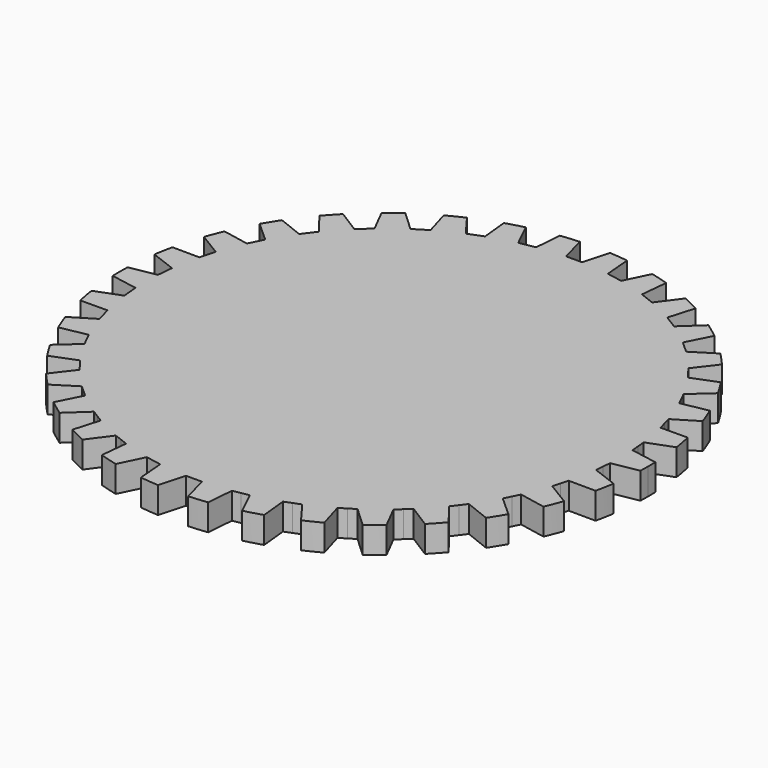
from build123d import *

# Parameters (mm, degrees)
F1_DEPTH = 1


with BuildPart() as f1:
    # F0 (on Top) → F1 (new body)
    with BuildSketch(Plane.XY):
        with BuildLine():
            ThreePointArc((-31.297324, 19.154953), (-31.292672, 19.331025), (-31.29112, 19.507151))
            ThreePointArc((-31.29112, 19.507151), (-31.292672, 19.683277), (-31.297324, 19.859349))
            Line((-31.297324, 19.859349), (-32.302205, 20.038811))
            Line((-32.302205, 20.038811), (-32.329886, 20.337532))
            Line((-32.329886, 20.337532), (-32.357566, 20.636252))
            Line((-32.357566, 20.636252), (-31.402772, 20.997305))
            ThreePointArc((-31.402772, 20.997305), (-31.461389, 21.344646), (-31.532204, 21.689707))
            Line((-31.532204, 21.689707), (-32.552951, 21.681468))
            Line((-32.552951, 21.681468), (-32.63505, 21.970015))
            Line((-32.63505, 21.970015), (-32.717149, 22.258563))
            Line((-32.717149, 22.258563), (-31.844955, 22.788912))
            ThreePointArc((-31.844955, 22.788912), (-31.966398, 23.119568), (-32.099412, 23.445741))
            Line((-32.099412, 23.445741), (-33.101265, 23.25008))
            Line((-33.101265, 23.25008), (-33.234986, 23.518629))
            Line((-33.234986, 23.518629), (-33.368708, 23.787178))
            Line((-33.368708, 23.787178), (-32.608816, 24.468762))
            ThreePointArc((-32.608816, 24.468762), (-32.788949, 24.771473), (-32.979632, 25.067651))
            Line((-32.979632, 25.067651), (-33.928474, 24.691232))
            Line((-33.928474, 24.691232), (-34.109264, 24.930637))
            Line((-34.109264, 24.930637), (-34.290055, 25.170042))
            Line((-34.290055, 25.170042), (-33.668342, 25.97965))
            ThreePointArc((-33.668342, 25.97965), (-33.901031, 26.244107), (-34.14289, 26.500205))
            Line((-34.14289, 26.500205), (-35.006409, 25.955846))
            Line((-35.006409, 25.955846), (-35.228112, 26.157954))
            Line((-35.228112, 26.157954), (-35.449815, 26.360063))
            Line((-35.449815, 26.360063), (-34.987453, 27.270126))
            ThreePointArc((-34.987453, 27.270126), (-35.264774, 27.487323), (-35.549573, 27.694619))
            Line((-35.549573, 27.694619), (-36.298363, 27.000857))
            Line((-36.298363, 27.000857), (-36.553428, 27.158787))
            Line((-36.553428, 27.158787), (-36.808493, 27.316716))
            Line((-36.808493, 27.316716), (-36.521228, 28.296242))
            ThreePointArc((-36.521228, 28.296242), (-36.833737, 28.458784), (-37.151777, 28.610218))
            Line((-37.151777, 28.610218), (-37.760339, 27.790679))
            Line((-37.760339, 27.790679), (-38.040081, 27.899052))
            Line((-38.040081, 27.899052), (-38.319822, 28.007424))
            Line((-38.319822, 28.007424), (-38.217436, 29.023057))
            ThreePointArc((-38.217436, 29.023057), (-38.55449, 29.125407), (-38.894941, 29.215824))
            Line((-38.894941, 29.215824), (-39.342552, 28.298416))
            Line((-39.342552, 28.298416), (-39.637444, 28.353541))
            Line((-39.637444, 28.353541), (-39.932335, 28.408665))
            Line((-39.932335, 28.408665), (-40.018314, 29.425818))
            ThreePointArc((-40.018314, 29.425818), (-40.368437, 29.464493), (-40.719705, 29.490812))
            Line((-40.719705, 29.490812), (-40.99112, 28.506776))
            Line((-40.99112, 28.506776), (-41.29112, 28.506776))
            Line((-41.29112, 28.506776), (-41.59112, 28.506776))
            Line((-41.59112, 28.506776), (-41.862536, 29.490812))
            ThreePointArc((-41.862536, 29.490812), (-42.213804, 29.464493), (-42.563927, 29.425818))
            Line((-42.563927, 29.425818), (-42.649905, 28.408665))
            Line((-42.649905, 28.408665), (-42.944797, 28.353541))
            Line((-42.944797, 28.353541), (-43.239689, 28.298416))
            Line((-43.239689, 28.298416), (-43.6873, 29.215824))
            ThreePointArc((-43.6873, 29.215824), (-44.02775, 29.125407), (-44.364805, 29.023057))
            Line((-44.364805, 29.023057), (-44.262418, 28.007424))
            Line((-44.262418, 28.007424), (-44.54216, 27.899052))
            Line((-44.54216, 27.899052), (-44.821902, 27.790679))
            Line((-44.821902, 27.790679), (-45.430464, 28.610218))
            ThreePointArc((-45.430464, 28.610218), (-45.748504, 28.458784), (-46.061013, 28.296242))
            Line((-46.061013, 28.296242), (-45.773748, 27.316716))
            Line((-45.773748, 27.316716), (-46.028813, 27.158787))
            Line((-46.028813, 27.158787), (-46.283878, 27.000857))
            Line((-46.283878, 27.000857), (-47.032668, 27.694619))
            ThreePointArc((-47.032668, 27.694619), (-47.317467, 27.487323), (-47.594788, 27.270126))
            Line((-47.594788, 27.270126), (-47.132426, 26.360063))
            Line((-47.132426, 26.360063), (-47.354129, 26.157954))
            Line((-47.354129, 26.157954), (-47.575832, 25.955846))
            Line((-47.575832, 25.955846), (-48.439351, 26.500205))
            ThreePointArc((-48.439351, 26.500205), (-48.68121, 26.244107), (-48.913899, 25.97965))
            Line((-48.913899, 25.97965), (-48.292186, 25.170042))
            Line((-48.292186, 25.170042), (-48.472977, 24.930637))
            Line((-48.472977, 24.930637), (-48.653767, 24.691232))
            Line((-48.653767, 24.691232), (-49.602609, 25.067651))
            ThreePointArc((-49.602609, 25.067651), (-49.793292, 24.771473), (-49.973425, 24.468762))
            Line((-49.973425, 24.468762), (-49.213533, 23.787178))
            Line((-49.213533, 23.787178), (-49.347255, 23.518629))
            Line((-49.347255, 23.518629), (-49.480976, 23.25008))
            Line((-49.480976, 23.25008), (-50.482829, 23.445741))
            ThreePointArc((-50.482829, 23.445741), (-50.615843, 23.119568), (-50.737286, 22.788912))
            Line((-50.737286, 22.788912), (-49.865092, 22.258563))
            Line((-49.865092, 22.258563), (-49.947191, 21.970015))
            Line((-49.947191, 21.970015), (-50.02929, 21.681468))
            Line((-50.02929, 21.681468), (-51.050037, 21.689707))
            ThreePointArc((-51.050037, 21.689707), (-51.120851, 21.344646), (-51.179469, 20.997305))
            Line((-51.179469, 20.997305), (-50.224674, 20.636252))
            Line((-50.224674, 20.636252), (-50.252355, 20.337532))
            Line((-50.252355, 20.337532), (-50.280036, 20.038811))
            Line((-50.280036, 20.038811), (-51.284916, 19.859349))
            ThreePointArc((-51.284916, 19.859349), (-51.29112, 19.507151), (-51.284916, 19.154953))
            Line((-51.284916, 19.154953), (-50.280036, 18.97549))
            Line((-50.280036, 18.97549), (-50.252355, 18.67677))
            Line((-50.252355, 18.67677), (-50.224674, 18.37805))
            Line((-50.224674, 18.37805), (-51.179469, 18.016997))
            ThreePointArc((-51.179469, 18.016997), (-51.120851, 17.669656), (-51.050037, 17.324595))
            Line((-51.050037, 17.324595), (-50.02929, 17.332834))
            Line((-50.02929, 17.332834), (-49.947191, 17.044287))
            Line((-49.947191, 17.044287), (-49.865092, 16.755739))
            Line((-49.865092, 16.755739), (-50.737286, 16.22539))
            ThreePointArc((-50.737286, 16.22539), (-50.615843, 15.894734), (-50.482829, 15.568561))
            Line((-50.482829, 15.568561), (-49.480976, 15.764222))
            Line((-49.480976, 15.764222), (-49.347255, 15.495673))
            Line((-49.347255, 15.495673), (-49.213533, 15.227124))
            Line((-49.213533, 15.227124), (-49.973425, 14.54554))
            ThreePointArc((-49.973425, 14.54554), (-49.793292, 14.242829), (-49.602609, 13.946651))
            Line((-49.602609, 13.946651), (-48.653767, 14.32307))
            Line((-48.653767, 14.32307), (-48.472977, 14.083665))
            Line((-48.472977, 14.083665), (-48.292186, 13.84426))
            Line((-48.292186, 13.84426), (-48.913899, 13.034651))
            ThreePointArc((-48.913899, 13.034651), (-48.68121, 12.770194), (-48.439351, 12.514097))
            Line((-48.439351, 12.514097), (-47.575832, 13.058456))
            Line((-47.575832, 13.058456), (-47.354129, 12.856347))
            Line((-47.354129, 12.856347), (-47.132426, 12.654239))
            Line((-47.132426, 12.654239), (-47.594788, 11.744176))
            ThreePointArc((-47.594788, 11.744176), (-47.317467, 11.526979), (-47.032668, 11.319683))
            Line((-47.032668, 11.319683), (-46.283878, 12.013445))
            Line((-46.283878, 12.013445), (-46.028813, 11.855515))
            Line((-46.028813, 11.855515), (-45.773748, 11.697586))
            Line((-45.773748, 11.697586), (-46.061013, 10.71806))
            ThreePointArc((-46.061013, 10.71806), (-45.748504, 10.555518), (-45.430464, 10.404084))
            Line((-45.430464, 10.404084), (-44.821902, 11.223623))
            Line((-44.821902, 11.223623), (-44.54216, 11.11525))
            Line((-44.54216, 11.11525), (-44.262418, 11.006878))
            Line((-44.262418, 11.006878), (-44.364805, 9.991245))
            ThreePointArc((-44.364805, 9.991245), (-44.02775, 9.888894), (-43.6873, 9.798478))
            Line((-43.6873, 9.798478), (-43.239689, 10.715886))
            Line((-43.239689, 10.715886), (-42.944797, 10.660761))
            Line((-42.944797, 10.660761), (-42.649905, 10.605636))
            Line((-42.649905, 10.605636), (-42.563927, 9.588483))
            ThreePointArc((-42.563927, 9.588483), (-42.213804, 9.549809), (-41.862536, 9.52349))
            Line((-41.862536, 9.52349), (-41.59112, 10.507525))
            Line((-41.59112, 10.507525), (-41.29112, 10.507525))
            Line((-41.29112, 10.507525), (-40.99112, 10.507525))
            Line((-40.99112, 10.507525), (-40.719705, 9.52349))
            ThreePointArc((-40.719705, 9.52349), (-40.368437, 9.549809), (-40.018314, 9.588483))
            Line((-40.018314, 9.588483), (-39.932335, 10.605636))
            Line((-39.932335, 10.605636), (-39.637444, 10.660761))
            Line((-39.637444, 10.660761), (-39.342552, 10.715886))
            Line((-39.342552, 10.715886), (-38.894941, 9.798478))
            ThreePointArc((-38.894941, 9.798478), (-38.55449, 9.888894), (-38.217436, 9.991245))
            Line((-38.217436, 9.991245), (-38.319822, 11.006878))
            Line((-38.319822, 11.006878), (-38.040081, 11.11525))
            Line((-38.040081, 11.11525), (-37.760339, 11.223623))
            Line((-37.760339, 11.223623), (-37.151777, 10.404084))
            ThreePointArc((-37.151777, 10.404084), (-36.833737, 10.555518), (-36.521228, 10.71806))
            Line((-36.521228, 10.71806), (-36.808493, 11.697586))
            Line((-36.808493, 11.697586), (-36.553428, 11.855515))
            Line((-36.553428, 11.855515), (-36.298363, 12.013445))
            Line((-36.298363, 12.013445), (-35.549573, 11.319683))
            ThreePointArc((-35.549573, 11.319683), (-35.264774, 11.526979), (-34.987453, 11.744176))
            Line((-34.987453, 11.744176), (-35.449815, 12.654239))
            Line((-35.449815, 12.654239), (-35.228112, 12.856347))
            Line((-35.228112, 12.856347), (-35.006409, 13.058456))
            Line((-35.006409, 13.058456), (-34.14289, 12.514097))
            ThreePointArc((-34.14289, 12.514097), (-33.901031, 12.770194), (-33.668342, 13.034651))
            Line((-33.668342, 13.034651), (-34.290055, 13.84426))
            Line((-34.290055, 13.84426), (-34.109264, 14.083665))
            Line((-34.109264, 14.083665), (-33.928474, 14.32307))
            Line((-33.928474, 14.32307), (-32.979632, 13.946651))
            ThreePointArc((-32.979632, 13.946651), (-32.788949, 14.242829), (-32.608816, 14.54554))
            Line((-32.608816, 14.54554), (-33.368708, 15.227124))
            Line((-33.368708, 15.227124), (-33.234986, 15.495673))
            Line((-33.234986, 15.495673), (-33.101265, 15.764222))
            Line((-33.101265, 15.764222), (-32.099412, 15.568561))
            ThreePointArc((-32.099412, 15.568561), (-31.966398, 15.894734), (-31.844955, 16.22539))
            Line((-31.844955, 16.22539), (-32.717149, 16.755739))
            Line((-32.717149, 16.755739), (-32.63505, 17.044287))
            Line((-32.63505, 17.044287), (-32.552951, 17.332834))
            Line((-32.552951, 17.332834), (-31.532204, 17.324595))
            ThreePointArc((-31.532204, 17.324595), (-31.461389, 17.669656), (-31.402772, 18.016997))
            Line((-31.402772, 18.016997), (-32.357566, 18.37805))
            Line((-32.357566, 18.37805), (-32.329886, 18.67677))
            Line((-32.329886, 18.67677), (-32.302205, 18.97549))
            Line((-32.302205, 18.97549), (-31.297324, 19.154953))
        make_face()
    extrude(amount=F1_DEPTH)


solid = f1.part
